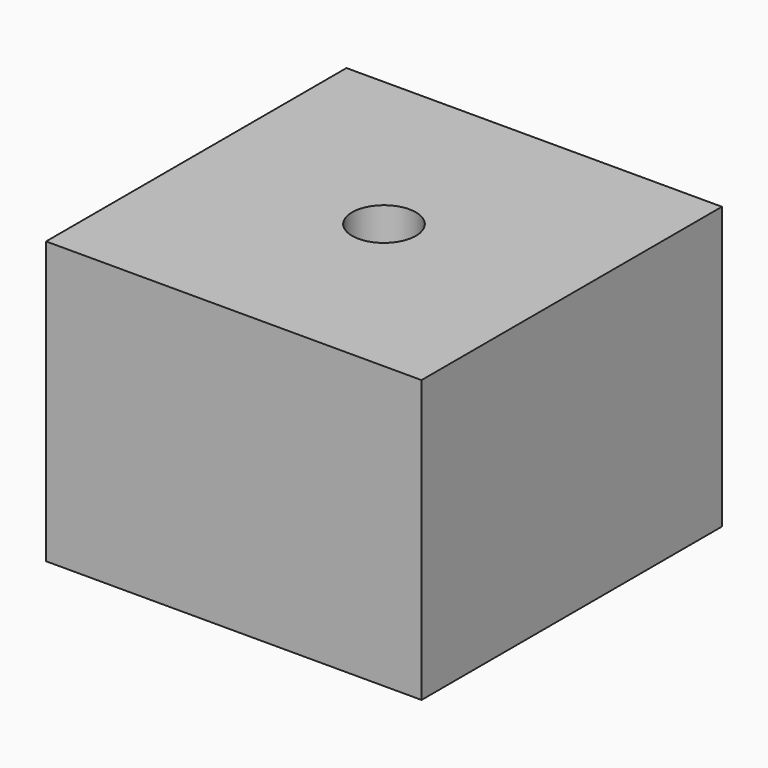
from build123d import *

# Parameters (mm, degrees)
CYLINDER051_R               = 1.7
CYLINDER051_DEPTH           = 80
CYLINDER051_PITCH_ANGLE     = 90
BOX012_W                    = 15
BOX012_H                    = 20
BOX012_DEPTH                = 20
CUT010035003034_PITCH_ANGLE = 90


with BuildPart() as taladro_tornillo011:
    # Cylinder051 → Cylinder051 (new body)
    with BuildSketch(Plane.XY):
        Circle(CYLINDER051_R)
    extrude(amount=CYLINDER051_DEPTH)


with BuildPart() as taladro_tornillo011_1:
    # Cylinder051 pitch: moved
    add(taladro_tornillo011.part.rotate(Axis((0, 0, 0), (0, 1, 0)), CYLINDER051_PITCH_ANGLE))


with BuildPart() as taladro_tornillo011_2:
    # Cylinder051 placement: moved
    add(taladro_tornillo011_1.part.moved(Location((-20, 10, 10))))


with BuildPart() as cut010035003034:
    # Box012 → Box012 (new body)
    with BuildSketch(Plane.XY):
        with Locations((7.5, 10)):
            Rectangle(BOX012_W, BOX012_H)
    extrude(amount=BOX012_DEPTH)

    # Cut010035003034: cut Taladro tornillo011
    add(taladro_tornillo011_2.part, mode=Mode.SUBTRACT)


with BuildPart() as cut010035003034_1:
    # Cut010035003034 pitch: moved
    add(cut010035003034.part.rotate(Axis((0, 0, 0), (0, 1, 0)), CUT010035003034_PITCH_ANGLE))


with BuildPart() as cut010035003034_2:
    # Cut010035003034 placement: moved
    add(cut010035003034_1.part.moved(Location((122, 66, 133))))


solid = cut010035003034_2.part
